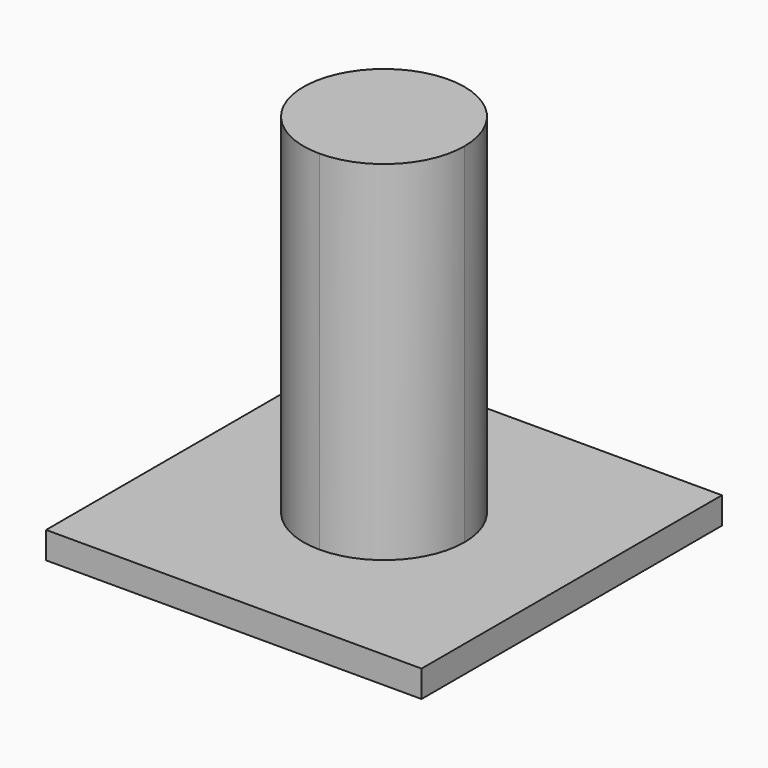
from build123d import *

# Parameters (mm, degrees)
F1_DEPTH = 5
F2_DEPTH = 70


with BuildPart() as f1:
    # F0 (on Top) → F1 (new body)
    with BuildSketch(Plane.XY):
        with BuildLine():
            ThreePointArc((8.693991, 7.349999), (-16.91261, 17.956601), (-6.306009, -7.650001))
            ThreePointArc((-6.306009, -7.650001), (4.300593, -3.256602), (8.693991, 7.349999))
        make_face()
        Polygon((-41.306009, 42.349999), (-41.306009, -27.650001), (-6.306009, -27.650001), (28.693991, -27.650001), (28.693991, 42.349999), align=None)
        with BuildLine():
            ThreePointArc((8.693991, 7.349999), (4.300593, -3.256602), (-6.306009, -7.650001))
            ThreePointArc((-6.306009, -7.650001), (-16.91261, 17.956601), (8.693991, 7.349999))
        make_face(mode=Mode.SUBTRACT)
    extrude(amount=F1_DEPTH)

    # F0 (on Top) → F2 (join)
    with BuildSketch(Plane.XY):
        with BuildLine():
            ThreePointArc((8.693991, 7.349999), (-16.91261, 17.956601), (-6.306009, -7.650001))
            ThreePointArc((-6.306009, -7.650001), (4.300593, -3.256602), (8.693991, 7.349999))
        make_face()
    extrude(amount=F2_DEPTH)


solid = f1.part
